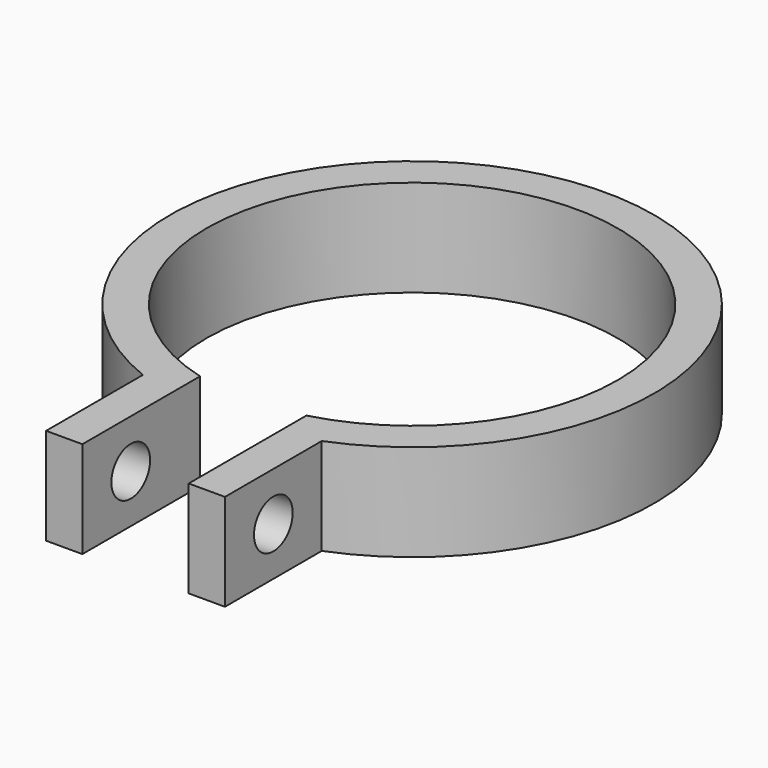
from build123d import *

# Parameters (mm, degrees)
F1_DEPTH = 4
F2_R     = 1
F3_DEPTH = 25


with BuildPart() as f1:
    # F0 (on Top) → F1 (new body)
    with BuildSketch(Plane.XY):
        with BuildLine():
            Line((2.19701, -14.291508), (3.69701, -14.291508))
            Line((3.69701, -14.291508), (3.69701, -9.291508))
            ThreePointArc((3.69701, -9.291508), (0, 10), (-3.69701, -9.291508))
            Line((-3.69701, -9.291508), (-3.69701, -14.291508))
            Line((-3.69701, -14.291508), (-2.19701, -14.291508))
            Line((-2.19701, -14.291508), (-2.19701, -9.755673))
            Line((-2.19701, -9.755673), (-2.19701, -8.21116))
            ThreePointArc((-2.19701, -8.21116), (0, 8.5), (2.19701, -8.21116))
            Line((2.19701, -8.21116), (2.19701, -9.755673))
            Line((2.19701, -9.755673), (2.19701, -14.291508))
        make_face()
    extrude(amount=F1_DEPTH)

    # F2 (on face) → F3 (cut)
    with BuildSketch(Plane.YZ.offset(3.69701)):
        with Locations((-11.791508, 2)):
            Circle(F2_R)
    extrude(amount=-F3_DEPTH, mode=Mode.SUBTRACT)


solid = f1.part
